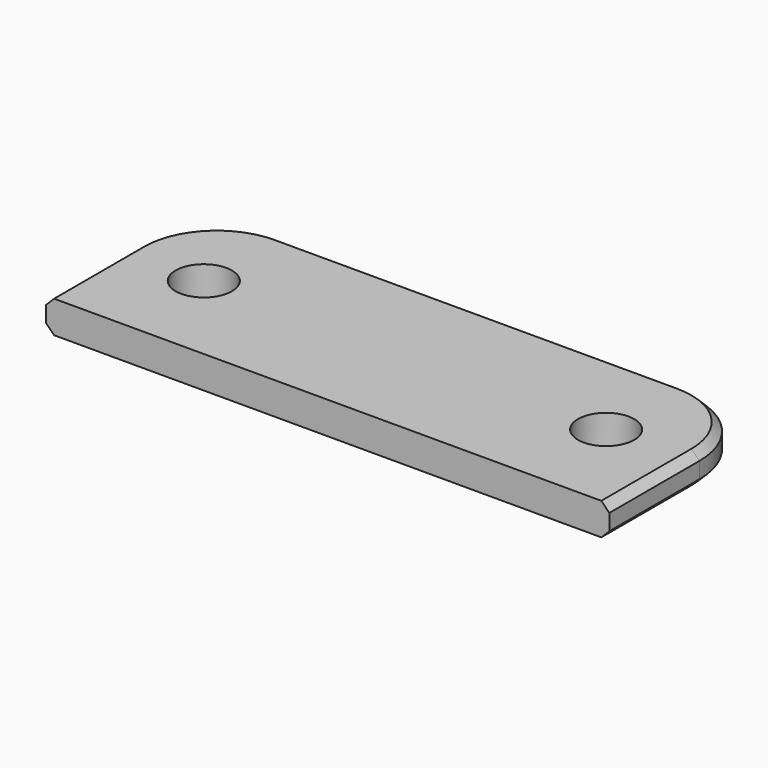
from build123d import *

# Parameters (mm, degrees)
F0_W     = 350
F0_H     = 120
F0_R     = 17.5
F1_DEPTH = 20
F2_R     = 50
F3_SIZE  = 5


with BuildPart() as f1:
    # F0 (on Top) → F1 (new body)
    with BuildSketch(Plane.XY):
        Rectangle(F0_W, F0_H)
        with Locations((-125, 0)):
            Circle(F0_R, mode=Mode.SUBTRACT)
        with Locations((125, 0)):
            Circle(F0_R, mode=Mode.SUBTRACT)
    extrude(amount=F1_DEPTH)

    # F2
    f2_edges = [f1.edges().sort_by_distance(p)[0] for p in [
        (175, 60, 10),
        (-175, 60, 10),
    ]]
    fillet(f2_edges, radius=F2_R)

    # F3
    f3_edges = [f1.edges().sort_by_distance(p)[0] for p in [
        (175, -25, 0),
        (0, 60, 20),
    ]]
    chamfer(f3_edges, length=F3_SIZE)


solid = f1.part
